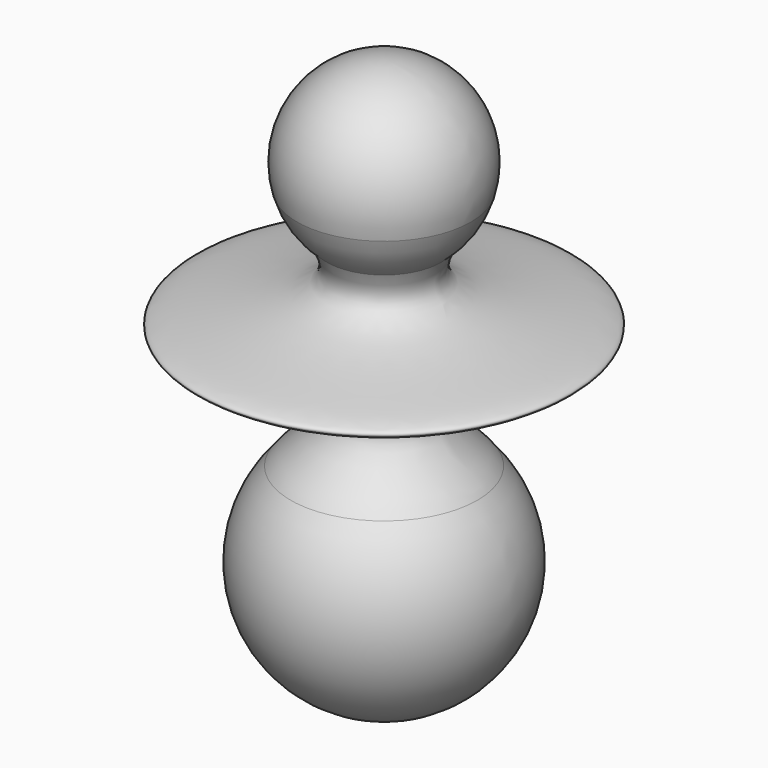
from build123d import *


with BuildPart() as f1:
    # F0 (on Front) → F1 (revolve)
    with BuildSketch(Plane.XZ):
        with BuildLine():
            Line((0, 11.176), (0, -3.175))
            ThreePointArc((0, -3.175), (2.8999455123, -1.2926488408), (2.3613298928, 2.122438724))
            add(Edge.make_bspline(
                [(1.4403017125, 7.114802271), (1.2766662737, 6.8133989289), (0.9700872051, 5.632056008), (7.6128997933, 5.4869793507), (-0.2604636098, 4.1067576306), (2.0750401678, 2.5484737288), (2.3613298928, 2.122438724)],
                knots=[0.1276578017, 0.1276578017, 0.1276578017, 0.1276578017, 0.2205824025, 0.5039105454, 0.793436433, 1, 1, 1, 1], degree=3))
            add(Edge.make_bspline(
                [(2.1982540528, 8.2627240484), (2.0558248606, 7.9611229834), (1.66510053, 7.5288636469), (1.4403017125, 7.114802271)],
                knots=[0, 0, 0, 0, 0.1276578017, 0.1276578017, 0.1276578017, 0.1276578017], degree=3))
            ThreePointArc((2.1982540528, 8.2627240484), (1.8247943481, 10.2669246847), (0, 11.176))
        make_face()
        with BuildLine():
            add(Edge.make_bspline(
                [(2.1982540528, 8.2627240484), (2.0558248606, 7.9611229834), (1.66510053, 7.5288636469), (1.4403017125, 7.114802271)],
                knots=[0, 0, 0, 0, 0.1276578017, 0.1276578017, 0.1276578017, 0.1276578017], degree=3))
            ThreePointArc((1.4403017125, 7.114802271), (1.907669551, 7.6303997126), (2.1982540528, 8.2627240484))
        make_face()
    revolve(axis=Axis((0, 0, 4.0005), (0, 0, -1)))


solid = f1.part
